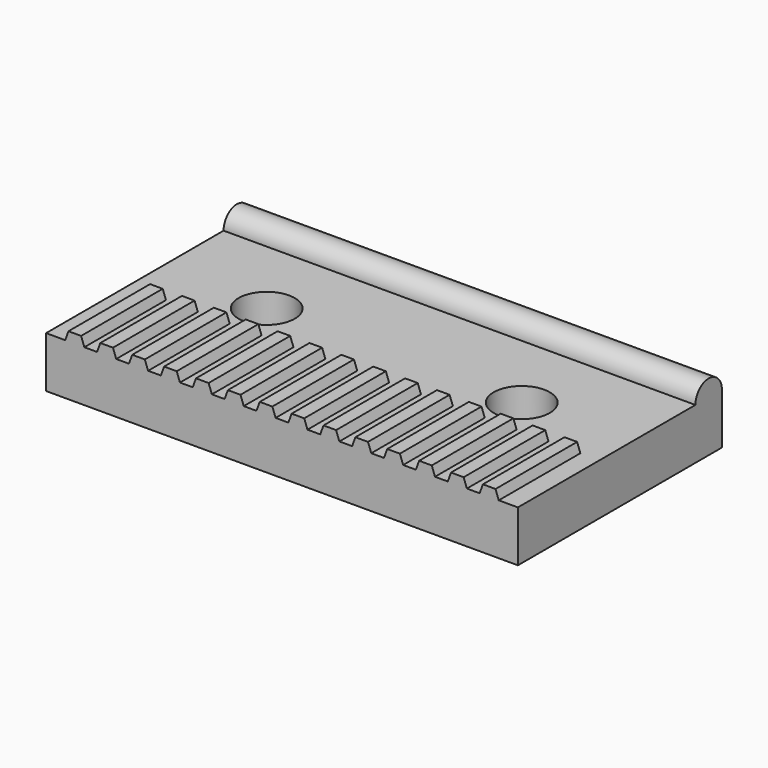
from build123d import *

# Parameters (mm, degrees)
F0_W     = 37
F0_H     = 4
F1_DEPTH = 20
F3_DEPTH = 8
F5_DEPTH = 37
F7_D     = 4.4
F7_DEPTH = 10
F7_TIP   = 1.3218933619


with BuildPart() as f1:
    # F0 (on Front) → F1 (new body)
    with BuildSketch(Plane.XZ):
        with Locations((0, 2)):
            Rectangle(F0_W, F0_H)
    extrude(amount=F1_DEPTH)

    # F2 (on face) → F3 (join)
    with BuildSketch(Plane.XZ.offset(20)):
        Polygon((0.754779164, 4.7), (0.5, 4), (2, 4), (1.745220836, 4.7), align=None)
        Polygon((-2, 4), (-0.5, 4), (-0.754779164, 4.7), (-1.745220836, 4.7), align=None)
        Polygon((4.5, 4), (4.245220836, 4.7), (3.254779164, 4.7), (3, 4), align=None)
        Polygon((7, 4), (6.745220836, 4.7), (5.754779164, 4.7), (5.5, 4), align=None)
        Polygon((9.5, 4), (9.245220836, 4.7), (8.254779164, 4.7), (8, 4), align=None)
        Polygon((12, 4), (11.745220836, 4.7), (10.754779164, 4.7), (10.5, 4), align=None)
        Polygon((14.5, 4), (14.245220836, 4.7), (13.254779164, 4.7), (13, 4), align=None)
        Polygon((17, 4), (16.745220836, 4.7), (15.754779164, 4.7), (15.5, 4), align=None)
        Polygon((-9.5, 4), (-8, 4), (-8.254779164, 4.7), (-9.245220836, 4.7), align=None)
        Polygon((-17, 4), (-15.5, 4), (-15.754779164, 4.7), (-16.745220836, 4.7), align=None)
        Polygon((-5.754779164, 4.7), (-6.745220836, 4.7), (-7, 4), (-5.5, 4), align=None)
        Polygon((-4.5, 4), (-3, 4), (-3.254779164, 4.7), (-4.245220836, 4.7), align=None)
        Polygon((-14.5, 4), (-13, 4), (-13.254779164, 4.7), (-14.245220836, 4.7), align=None)
        Polygon((-10.754779164, 4.7), (-11.745220836, 4.7), (-12, 4), (-10.5, 4), align=None)
    extrude(amount=-F3_DEPTH)

    # F4 (on face) → F5 (join, through all)
    with BuildSketch(Plane.YZ.offset(18.5)):
        with BuildLine():
            Line((-2.6, 4), (0, 4))
            ThreePointArc((0, 4), (-1.3, 5.3), (-2.6, 4))
        make_face()
    extrude(amount=-F5_DEPTH)

    # F7
    with Locations(Plane(origin=(0, 0, 0), x_dir=(1, 0, 0), z_dir=(0, 0, -1))):
        with Locations((10, 9), (-10, 9)):
            Hole(F7_D / 2, depth=F7_DEPTH)
            with Locations((0, 0, -(F7_DEPTH + F7_TIP / 2))):  # 118° drill point
                Cone(0, F7_D / 2, F7_TIP, mode=Mode.SUBTRACT)


solid = f1.part
